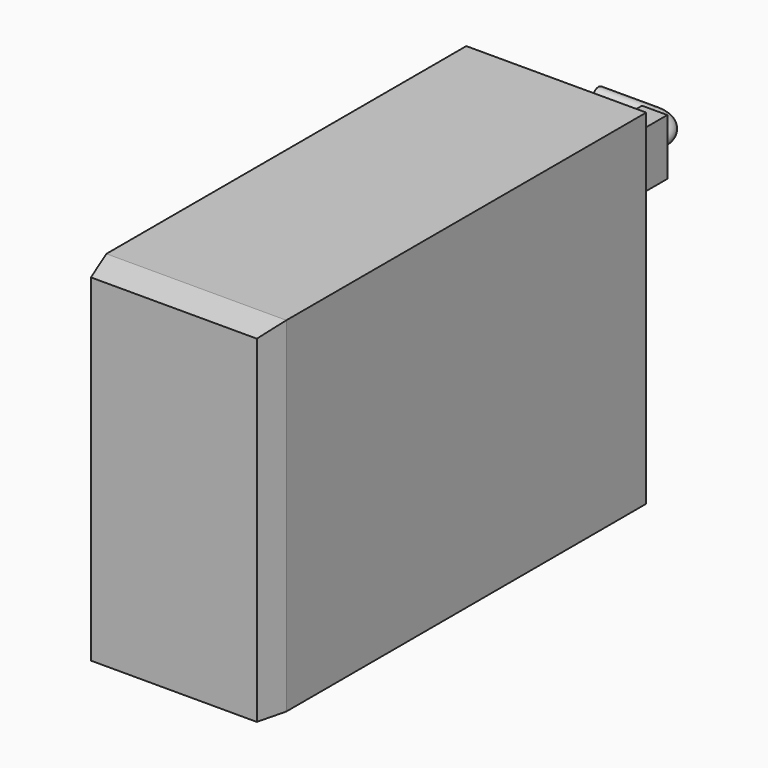
from build123d import *

# Parameters (mm, degrees)
F0_W     = 128
F0_H     = 340
F1_DEPTH = 245
F2_SIZE2 = 20
F2_SIZE  = 5
F3_W     = 18
F3_H     = 40
F4_DEPTH = 50
F7_R     = 5


with BuildPart() as f1:
    # F0 (on Top) → F1 (new body)
    with BuildSketch(Plane.XY):
        with Locations((64, 170)):
            Rectangle(F0_W, F0_H)
    extrude(amount=F1_DEPTH)

    # F2
    f2_edges = [f1.edges().sort_by_distance(p)[0] for p in [
        (128, 0, 122.5),
        (0, 0, 122.5),
        (64, 0, 245),
    ]]
    f2_side = f1.faces().sort_by_distance((64, 0, 122.5))[0]
    chamfer(f2_edges, length=F2_SIZE, length2=F2_SIZE2, reference=f2_side)

    # F3 (on face) → F4 (join)
    with BuildSketch(Plane(origin=(0, 340, 0), x_dir=(-1, 0, 0), z_dir=(0, 1, 0))):
        with Locations((-94, 195)):
            Rectangle(F3_W, F3_H)
    extrude(amount=F4_DEPTH)

    # F8: sweep along a path in F6
    with BuildLine(Plane.XY.offset(195)) as f8_path:
        Line((94, 390), (94, 395))
        ThreePointArc((94, 395), (88.1421356237, 409.1421356237), (74, 415))
        Line((74, 415), (34, 415))
    # F7 (on face) → F8 (sweep)
    with BuildSketch(Plane(origin=(0, 390, 0), x_dir=(-1, 0, 0), z_dir=(0, 1, 0))):
        with Locations((-94, 195)):
            Circle(F7_R)
    sweep(path=f8_path.line)


solid = f1.part
